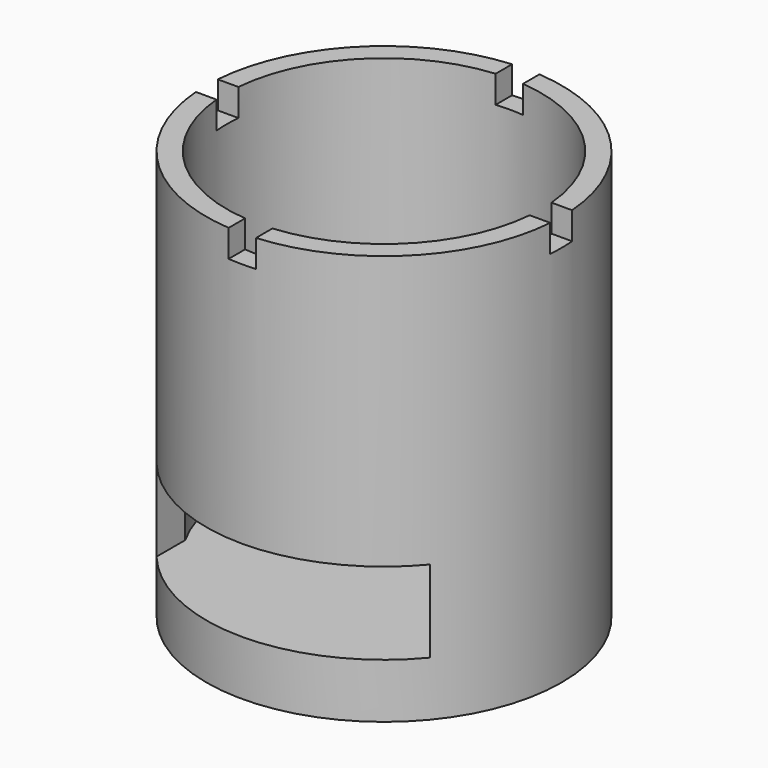
from build123d import *

# Parameters (mm, degrees)
F0_R     = 165.1
F1_DEPTH = 381
F2_R     = 146.05
F3_DEPTH = 330.2
F4_W     = 254
F4_H     = 76.2
F5_DEPTH = 177.8
F7_DEPTH = 25.4


with BuildPart() as f1:
    # F0 (on Top) → F1 (new body)
    with BuildSketch(Plane.XY):
        Circle(F0_R)
    extrude(amount=F1_DEPTH)

    # F2 (on face) → F3 (cut)
    with BuildSketch(Plane.XY.offset(381)):
        Circle(F2_R)
    extrude(amount=-F3_DEPTH, mode=Mode.SUBTRACT)

    # F4 (on Front) → F5 (cut)
    with BuildSketch(Plane.XZ):
        with Locations((0, 88.9)):
            Rectangle(F4_W, F4_H)
    extrude(amount=F5_DEPTH, mode=Mode.SUBTRACT)

    # F6 (on face) → F7 (cut)
    with BuildSketch(Plane.XY.offset(381)):
        with BuildLine():
            ThreePointArc((12.7, 164.6108137396), (6.3547089469, 164.9776581062), (0, 165.1))
            ThreePointArc((0, 165.1), (-6.3547089469, 164.9776581062), (-12.7, 164.6108137396))
            Line((-12.7, 164.6108137396), (-12.7, 145.4967783148))
            ThreePointArc((-12.7, 145.4967783148), (0, 146.05), (12.7, 145.4967783148))
            Line((12.7, 145.4967783148), (12.7, 164.6108137396))
        make_face()
        with BuildLine():
            Line((-145.4967783148, 12.7), (-164.6108137396, 12.7))
            ThreePointArc((-164.6108137396, 12.7), (-164.9776581062, 6.3547089469), (-165.1, 0))
            ThreePointArc((-165.1, 0), (-164.9776581062, -6.3547089469), (-164.6108137396, -12.7))
            Line((-164.6108137396, -12.7), (-145.4967783148, -12.7))
            ThreePointArc((-145.4967783148, -12.7), (-146.05, 0), (-145.4967783148, 12.7))
        make_face()
        with BuildLine():
            ThreePointArc((12.7, -145.4967783148), (0, -146.05), (-12.7, -145.4967783148))
            Line((-12.7, -145.4967783148), (-12.7, -164.6108137396))
            ThreePointArc((-12.7, -164.6108137396), (-6.3547090887, -164.9776581007), (-2.839e-07, -165.1))
            ThreePointArc((-2.839e-07, -165.1), (6.354708805, -164.9776581116), (12.7, -164.6108137396))
            Line((12.7, -164.6108137396), (12.7, -145.4967783148))
        make_face()
        with BuildLine():
            ThreePointArc((165.1, 0), (164.9776581062, 6.3547089469), (164.6108137396, 12.7))
            Line((164.6108137396, 12.7), (145.4967783148, 12.7))
            ThreePointArc((145.4967783148, 12.7), (145.9116290309, 6.3560218343), (146.05, 0))
            ThreePointArc((146.05, 0), (145.9116290309, -6.3560218343), (145.4967783148, -12.7))
            Line((145.4967783148, -12.7), (164.6108137396, -12.7))
            ThreePointArc((164.6108137396, -12.7), (164.9776581062, -6.3547089469), (165.1, 0))
        make_face()
    extrude(amount=-F7_DEPTH, mode=Mode.SUBTRACT)


solid = f1.part
